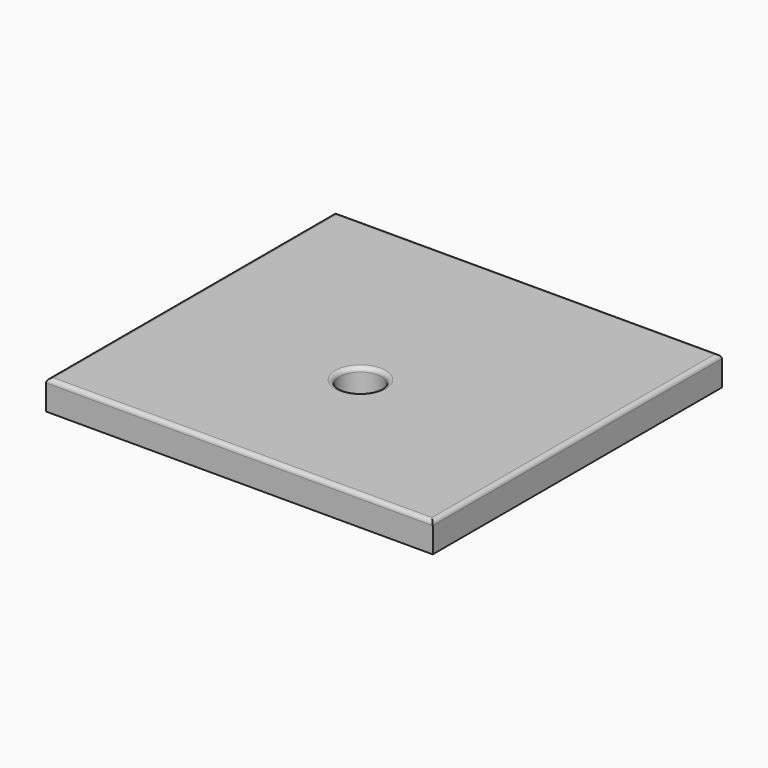
from build123d import *

# Parameters (mm, degrees)
F0_W     = 46
F0_H     = 43
F0_R     = 2.5
F1_DEPTH = 3.5
F2_R     = 0.5


with BuildPart() as f1:
    # F0 (on Top) → F1 (new body)
    with BuildSketch(Plane.XY):
        with Locations((-3.022213, -8.843659)):
            Rectangle(F0_W, F0_H)
        with Locations((-3.022213, -12.343659)):
            Circle(F0_R, mode=Mode.SUBTRACT)
    extrude(amount=F1_DEPTH)

    # F2
    f2_edges = [f1.edges().sort_by_distance(p)[0] for p in [
        (-3.022213, 12.656341, 3.5),
        (-26.022213, -8.843659, 3.5),
        (-3.022213, -30.343659, 3.5),
        (19.977787, -8.843659, 3.5),
        (-5.522213, -12.343659, 3.5),
    ]]
    fillet(f2_edges, radius=F2_R)


solid = f1.part
